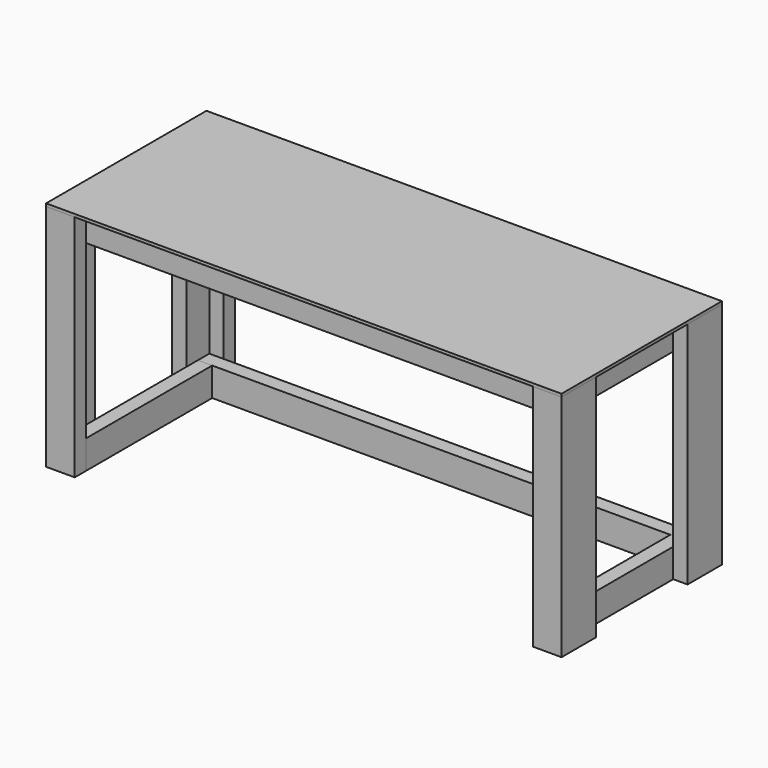
from build123d import *

# Parameters (mm, degrees)
F0_W      = 1800
F0_H      = 700
F1_DEPTH  = 10
F2_W      = 50
F2_H      = 100
F3_DEPTH  = 800
F4_W      = 50
F4_H      = 100
F5_DEPTH  = 1700
F6_W      = 50
F6_H      = 100
F7_DEPTH  = 1700
F8_W      = 50
F8_H      = 100
F9_DEPTH  = 500
F10_W     = 50
F10_H     = 100
F11_DEPTH = 500
F12_W     = 50
F12_H     = 100
F13_DEPTH = 1700
F14_W     = 50
F14_H     = 100
F15_DEPTH = 550
F16_W     = 50
F16_H     = 100
F17_DEPTH = 550
F18_W     = 25
F18_H     = 100
F19_DEPTH = 500


with BuildPart() as f1:
    # F0 (on Top) → F1 (new body)
    with BuildSketch(Plane.XY):
        Rectangle(F0_W, F0_H)
    extrude(amount=F1_DEPTH)


with BuildPart() as f3:
    # F2 (on face) → F3 (new body)
    with BuildSketch(Plane(origin=(0, 0, 0), x_dir=(1, 0, 0), z_dir=(0, 0, -1))):
        Polygon((-800, 350), (-900, 350), (-900, 300), (-850, 300), (-800, 300), align=None)
        with Locations((-875, 250)):
            Rectangle(F2_W, F2_H)
        with Locations((-875, -250)):
            Rectangle(F2_W, F2_H)
        Polygon((-850, -300), (-900, -300), (-900, -350), (-800, -350), (-800, -300), align=None)
        Polygon((800, -350), (900, -350), (900, -300), (850, -300), (800, -300), align=None)
        with Locations((875, -250)):
            Rectangle(F2_W, F2_H)
        Polygon((900, 300), (900, 350), (800, 350), (800, 300), (850, 300), align=None)
        with Locations((875, 250)):
            Rectangle(F2_W, F2_H)
    extrude(amount=F3_DEPTH)


with BuildPart() as f5:
    # F4 (on face) → F5 (new body, through all)
    with BuildSketch(Plane.YZ.offset(-850)):
        with Locations((-275, -50)):
            Rectangle(F4_W, F4_H)
    extrude(amount=F5_DEPTH)


with BuildPart() as f7:
    # F6 (on face) → F7 (new body, through all)
    with BuildSketch(Plane.YZ.offset(-850)):
        with Locations((275, -50)):
            Rectangle(F6_W, F6_H)
    extrude(amount=F7_DEPTH)


with BuildPart() as f9:
    # F8 (on face) → F9 (new body, through all)
    with BuildSketch(Plane.XZ.offset(-250)):
        with Locations((-825, -50)):
            Rectangle(F8_W, F8_H)
    extrude(amount=F9_DEPTH)


with BuildPart() as f11:
    # F10 (on face) → F11 (new body, through all)
    with BuildSketch(Plane.XZ.offset(-250)):
        with Locations((825, -50)):
            Rectangle(F10_W, F10_H)
    extrude(amount=F11_DEPTH)


with BuildPart() as f13:
    # F12 (on face) → F13 (new body, through all)
    with BuildSketch(Plane.YZ.offset(-850)):
        with Locations((275, -750)):
            Rectangle(F12_W, F12_H)
    extrude(amount=F13_DEPTH)


with BuildPart() as f15:
    # F14 (on face) → F15 (new body, through all)
    with BuildSketch(Plane.XZ.offset(-250)):
        with Locations((825, -750)):
            Rectangle(F14_W, F14_H)
    extrude(amount=F15_DEPTH)


with BuildPart() as f17:
    # F16 (on face) → F17 (new body, through all)
    with BuildSketch(Plane.XZ.offset(-250)):
        with Locations((-825, -750)):
            Rectangle(F16_W, F16_H)
    extrude(amount=F17_DEPTH)


with BuildPart() as f19:
    # F18 (on face) → F19 (new body, through all)
    with BuildSketch(Plane(origin=(0, -250, 0), x_dir=(-1, 0, 0), z_dir=(0, 1, 0))):
        with Locations((-12.5, -50)):
            Rectangle(F18_W, F18_H)
        with Locations((12.5, -50)):
            Rectangle(F18_W, F18_H)
    extrude(amount=F19_DEPTH)


solid = Compound([f1.part, f3.part, f5.part, f7.part, f9.part, f11.part, f13.part, f15.part, f17.part, f19.part])
